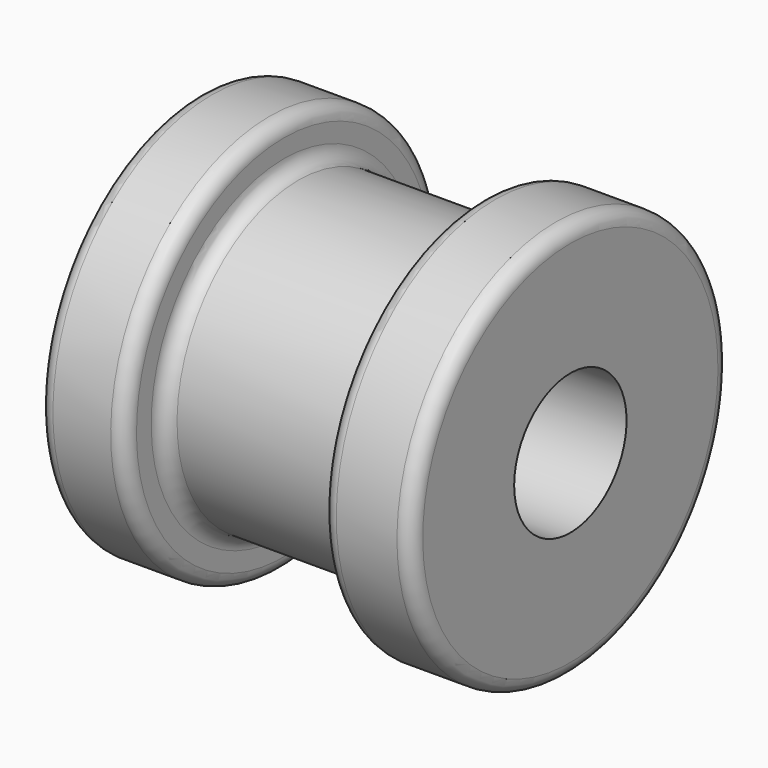
from build123d import *

# Parameters (mm, degrees)
F2_R     = 2.54
F4_D     = 24.892
F4_DEPTH = 101.6
F4_TIP   = 7.4783112644


with BuildPart() as f1:
    # F0 (on Front) → F1 (revolve)
    with BuildSketch(Plane.XZ):
        Polygon((-39.2678369393, 33.1912179422), (-54.5836920168, 33.1912179422), (-54.5836920168, -2.0352486931), (-39.2678369393, -2.0352486931), (-39.2678369393, 6.3033834775), (-4.3817243393, 6.3033834775), (-4.3817243393, -2.0352486931), (11.4446589973, -2.0352486931), (11.4446589973, 33.1912179422), (-4.3817243393, 33.1912179422), (-4.3817243393, 24.8525857715), (-39.2678369393, 24.8525857715), align=None)
    revolve(axis=Axis((-46.925764478, 0, -2.0352486931), (-1, 0, 0)))

    # F2
    f2_edges = [f1.edges().sort_by_distance(p)[0] for p in [
        (11.444659, 0, -37.261715),
        (-54.583692, 0, -37.261715),
        (-39.267837, 0, -37.261715),
        (-4.381724, 0, -37.261715),
        (-4.381724, 0, -28.923083),
        (-39.267837, 0, -28.923083),
    ]]
    fillet(f2_edges, radius=F2_R)

    # F4
    with Locations(Plane.YZ.offset(11.4446589973)):
        with Locations((0, -2.0352486931)):
            Hole(F4_D / 2, depth=F4_DEPTH)
            with Locations((0, 0, -(F4_DEPTH + F4_TIP / 2))):  # 118° drill point
                Cone(0, F4_D / 2, F4_TIP, mode=Mode.SUBTRACT)


solid = f1.part
